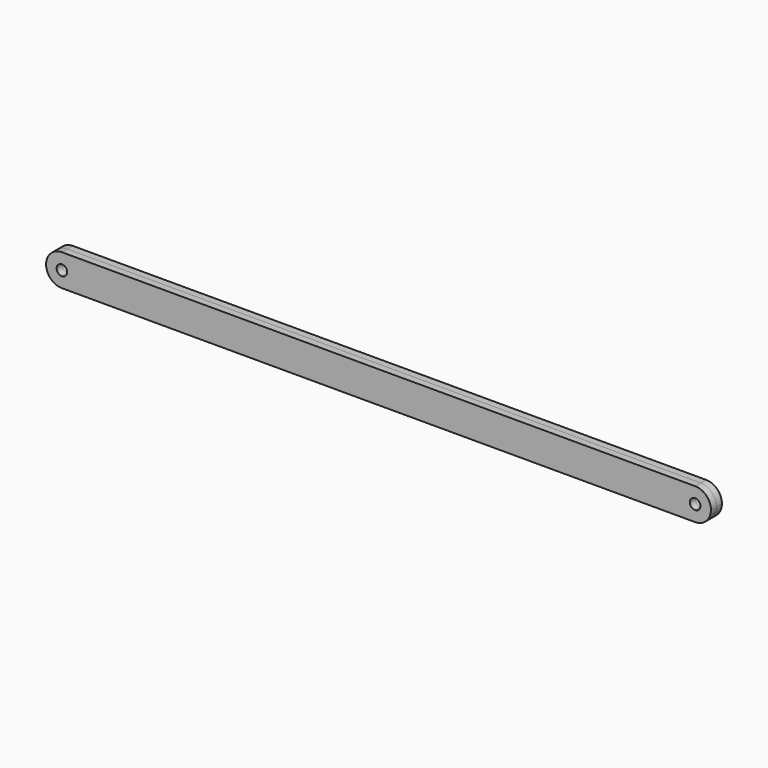
from build123d import *

# Parameters (mm, degrees)
F1_DEPTH = 4.1275


with BuildPart() as f1:
    # F0 (on Front) → F1 (new body, symmetric)
    with BuildSketch(Plane.XZ):
        with BuildLine():
            ThreePointArc((190.5, 9.525), (180.975, 0), (190.5, -9.525))
            Line((190.5, -9.525), (190.5, -3.175))
            ThreePointArc((190.5, -3.175), (187.325, 0), (190.5, 3.175))
            Line((190.5, 3.175), (190.5, 9.525))
        make_face()
        with BuildLine():
            Line((-190.5, -9.525), (190.5, -9.525))
            ThreePointArc((190.5, -9.525), (180.975, 0), (190.5, 9.525))
            Line((190.5, 9.525), (-190.5, 9.525))
            ThreePointArc((-190.5, 9.525), (-183.7648079092, 6.7351920908), (-180.975, 0))
            ThreePointArc((-180.975, 0), (-183.7648079092, -6.7351920908), (-190.5, -9.525))
        make_face()
        with BuildLine():
            Line((190.5, -3.175), (190.5, -9.525))
            ThreePointArc((190.5, -9.525), (197.2351920908, -6.7351920908), (200.025, 0))
            ThreePointArc((200.025, 0), (197.2351920908, 6.7351920908), (190.5, 9.525))
            Line((190.5, 9.525), (190.5, 3.175))
            ThreePointArc((190.5, 3.175), (192.7450640303, 2.2450640303), (193.675, 0))
            ThreePointArc((193.675, 0), (192.7450640303, -2.2450640303), (190.5, -3.175))
        make_face()
        with BuildLine():
            ThreePointArc((-190.5, 9.525), (-200.025, 0), (-190.5, -9.525))
            Line((-190.5, -9.525), (-190.5, -3.175))
            ThreePointArc((-190.5, -3.175), (-193.675, 0), (-190.5, 3.175))
            Line((-190.5, 3.175), (-190.5, 9.525))
        make_face()
        with BuildLine():
            Line((-190.5, -3.175), (-190.5, -9.525))
            ThreePointArc((-190.5, -9.525), (-183.7648079092, -6.7351920908), (-180.975, 0))
            ThreePointArc((-180.975, 0), (-183.7648079092, 6.7351920908), (-190.5, 9.525))
            Line((-190.5, 9.525), (-190.5, 3.175))
            ThreePointArc((-190.5, 3.175), (-188.2549359697, 2.2450640303), (-187.325, 0))
            ThreePointArc((-187.325, 0), (-188.2549359697, -2.2450640303), (-190.5, -3.175))
        make_face()
    extrude(amount=F1_DEPTH, both=True)


solid = f1.part
